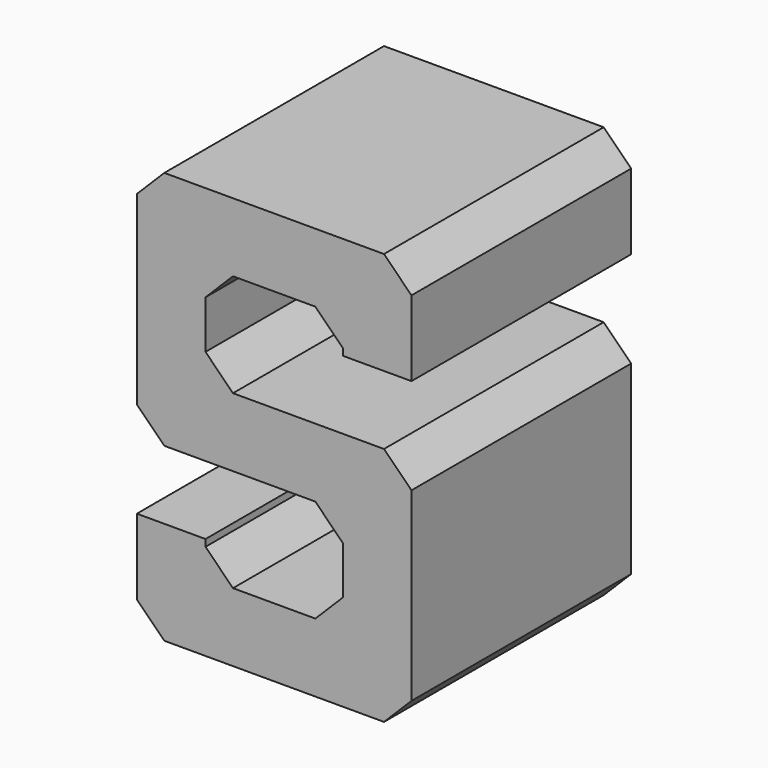
from build123d import *

# Parameters (mm, degrees)
F1_DEPTH = 20
F2_SIZE  = 2
F3_SIZE  = 2


with BuildPart() as f1:
    # F0 (on Front) → F1 (new body)
    with BuildSketch(Plane.XZ):
        Polygon((0, 7.5), (0, 0), (20, 0), (20, 17.5), (5, 17.5), (5, 25), (15, 25), (15, 22.5), (20, 22.5), (20, 30), (0, 30), (0, 12.5), (15, 12.5), (15, 5), (5, 5), (5, 7.5), align=None)
    extrude(amount=F1_DEPTH)

    # F2
    f2_edges = [f1.edges().sort_by_distance(p)[0] for p in [
        (20, -10, 30),
        (0, -10, 30),
        (0, -10, 12.5),
        (20, -10, 17.5),
        (0, -10, 0),
        (20, -10, 0),
    ]]
    chamfer(f2_edges, length=F2_SIZE)

    # F3
    f3_edges = [f1.edges().sort_by_distance(p)[0] for p in [
        (5, -10, 17.5),
        (5, -10, 5),
        (5, -10, 25),
        (15, -10, 12.5),
        (15, -10, 25),
        (15, -10, 5),
    ]]
    chamfer(f3_edges, length=F3_SIZE)


solid = f1.part
